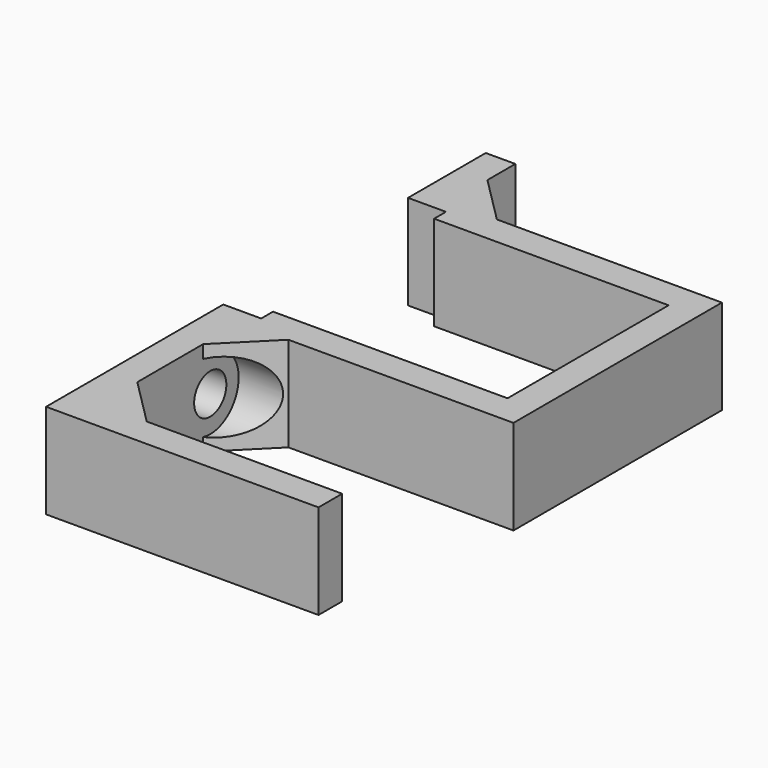
from build123d import *

# Parameters (mm, degrees)
PAD_DEPTH       = 8
CHAMFER_SIZE    = 4
SKETCH001_R     = 1.7
POCKET_DEPTH    = 25.501
SKETCH002_R     = 3
POCKET001_DEPTH = 23.001


with BuildPart() as part:
    # Sketch → Pad (new body)
    with BuildSketch(Plane.XY):
        Polygon((0, 0), (23, 0), (23, 2.5), (2.5, 2.5), (2.5, 17.45), (25.5, 17.45), (25.5, 39.45), (2.5, 39.45), (2.5, 46.4), (0, 46.4), (0, 38.2), (3.2, 38.2), (3.2, 36.95), (23, 36.95), (23, 19.95), (3.2, 19.95), (3.2, 18.7), (0, 18.7), align=None)
    extrude(amount=PAD_DEPTH)

    # Chamfer
    chamfer_edges = [part.edges().sort_by_distance(p)[0] for p in [
        (2.5, 17.45, 4),
        (2.5, 39.45, 4),
        (2.5, 2.5, 4),
    ]]
    chamfer(chamfer_edges, length=CHAMFER_SIZE)

    # Sketch001 (on Face9 of Chamfer) → Pocket (cut, through all)
    with BuildSketch(Plane(origin=(0, 0, 0), x_dir=(0, -1, 0), z_dir=(-1, 0, 0))):
        with Locations((-42.7, 4)):
            Circle(SKETCH001_R)
        with Locations((-14.2, 4)):
            Circle(SKETCH001_R)
    extrude(amount=-POCKET_DEPTH, mode=Mode.SUBTRACT)

    # Sketch002 (on Face18 of Pocket) → Pocket001 (cut, through all)
    with BuildSketch(Plane.YZ.offset(2.5)):
        with Locations((14.2, 4)):
            Circle(SKETCH002_R)
        with Locations((42.7, 4)):
            Circle(SKETCH002_R)
    extrude(amount=POCKET001_DEPTH, mode=Mode.SUBTRACT)


solid = part.part
